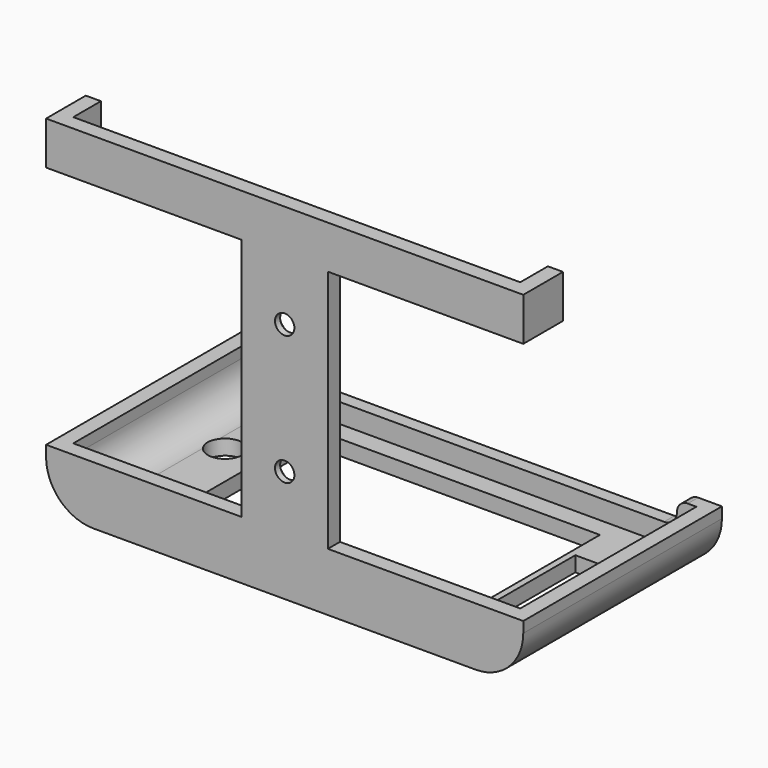
from build123d import *

# Parameters (mm, degrees)
SKETCH067_R     = 2.25
PAD050_DEPTH    = 3.5
PAD051_DEPTH    = 51
PAD052_DEPTH    = 3
CHAMFER005_SIZE = 2
SKETCH070_R     = 4
SKETCH070_W     = 66
SKETCH070_H     = 42.5
SKETCH070_W_2   = 10
SKETCH070_H_2   = 25
POCKET033_DEPTH = 80.001
SKETCH071_W     = 3.5
SKETCH071_H     = 10
PAD053_DEPTH    = 8


with BuildPart() as part:
    # Sketch067 → Pad050 (new body)
    with BuildSketch(Plane.XZ):
        with BuildLine():
            Line((55.25, 24), (-55.25, 24))
            Line((-55.25, 24), (-55.25, 14))
            Line((-55.25, 14), (-10, 14))
            Line((-10, 14), (-10, -42.5))
            Line((-10, -42.5), (-55.25, -42.5))
            Line((-55.25, -42.5), (-55.25, -45))
            ThreePointArc((-55.25, -45), (-52.028175, -52.778175), (-44.25, -56))
            Line((44.25, -56), (-44.25, -56))
            ThreePointArc((44.25, -56), (52.028175, -52.778175), (55.25, -45))
            Line((55.25, -42.5), (55.25, -45))
            Line((10, -42.5), (55.25, -42.5))
            Line((10, 14), (10, -42.5))
            Line((55.25, 14), (10, 14))
            Line((55.25, 24), (55.25, 14))
        make_face()
        Circle(SKETCH067_R, mode=Mode.SUBTRACT)
        with Locations((0, -30)):
            Circle(SKETCH067_R, mode=Mode.SUBTRACT)
    extrude(amount=PAD050_DEPTH)

    # Sketch068 (on Face17 of Pad050) → Pad051 (join)
    with BuildSketch(Plane(origin=(0, 0, 0), x_dir=(1, 0, 0), z_dir=(0, 1, 0))):
        with BuildLine():
            Line((-55.25, 45), (-55.25, 42.5))
            Line((-55.25, 42.5), (-51.75, 42.5))
            Line((-51.75, 42.5), (-51.75, 45))
            ThreePointArc((-44.25, 52.5), (-49.553301, 50.303301), (-51.75, 45))
            Line((-44.25, 52.5), (44.25, 52.5))
            ThreePointArc((51.75, 45), (49.553301, 50.303301), (44.25, 52.5))
            Line((51.75, 42.5), (51.75, 45))
            Line((55.25, 42.5), (51.75, 42.5))
            Line((55.25, 45), (55.25, 42.5))
            ThreePointArc((55.25, 45), (52.028175, 52.778175), (44.25, 56))
            Line((-44.25, 56), (44.25, 56))
            ThreePointArc((-44.25, 56), (-52.028175, 52.778175), (-55.25, 45))
        make_face()
    extrude(amount=PAD051_DEPTH)

    # Sketch069 (on Face17 of Pad051) → Pad052 (join)
    with BuildSketch(Plane(origin=(0, 51, 0), x_dir=(1, 0, 0), z_dir=(0, 1, 0))):
        with BuildLine():
            Line((-55.25, 45), (-55.25, 42.5))
            Line((-55.25, 42.5), (-49.75, 42.5))
            ThreePointArc((-49.75, 42.5), (-47.982233, 43.232233), (-47.25, 45))
            ThreePointArc((-44.25, 48), (-46.37132, 47.12132), (-47.25, 45))
            Line((-44.25, 48), (44.25, 48))
            ThreePointArc((47.25, 45), (46.37132, 47.12132), (44.25, 48))
            ThreePointArc((47.25, 45), (47.982233, 43.232233), (49.75, 42.5))
            Line((55.25, 42.5), (49.75, 42.5))
            Line((55.25, 45), (55.25, 42.5))
            ThreePointArc((55.25, 45), (52.028175, 52.778175), (44.25, 56))
            Line((-44.25, 56), (44.25, 56))
            ThreePointArc((-44.25, 56), (-52.028175, 52.778175), (-55.25, 45))
        make_face()
    extrude(amount=PAD052_DEPTH)

    # Chamfer005
    chamfer005_edges = [part.edges().sort_by_distance(p)[0] for p in [
        (-2.25, 0, -30),
        (-2.25, 0, 0),
    ]]
    chamfer(chamfer005_edges, length=CHAMFER005_SIZE)

    # Sketch070 (on Face28 of Chamfer005) → Pocket033 (cut, through all)
    with BuildSketch(Plane(origin=(0, 0, -56), x_dir=(1, 0, 0), z_dir=(0, 0, -1))):
        with Locations((-41, -30.5)):
            Circle(SKETCH070_R)
        with Locations((0, -25.25)):
            Rectangle(SKETCH070_W, SKETCH070_H)
        with Locations((39.5, -25)):
            Rectangle(SKETCH070_W_2, SKETCH070_H_2)
    extrude(amount=-POCKET033_DEPTH, mode=Mode.SUBTRACT)

    # Sketch071 (on Face4 of Pad051) → Pad053 (join)
    with BuildSketch(Plane(origin=(0, 0, 0), x_dir=(1, 0, 0), z_dir=(0, 1, 0))):
        with Locations((-53.5, -19)):
            Rectangle(SKETCH071_W, SKETCH071_H)
        with Locations((53.5, -19)):
            Rectangle(SKETCH071_W, SKETCH071_H)
    extrude(amount=PAD053_DEPTH)


with BuildPart() as part_1:
    # Body012 placement: moved
    add(part.part.moved(Location((0, -25, -32.9))))


solid = part_1.part
